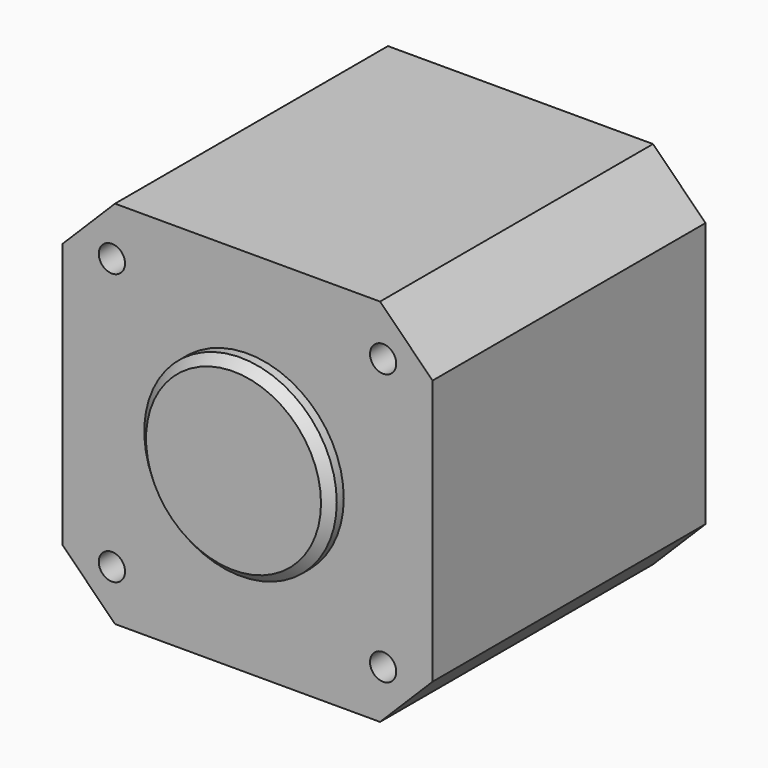
from build123d import *

# Parameters (mm, degrees)
F0_W     = 42.3
F0_H     = 42.3
F1_DEPTH = 39
F2_R     = 11
F3_DEPTH = 2
F4_SIZE  = 1
F6_D     = 3
F6_DEPTH = 10
F6_TIP   = 0.9012909285
F7_SIZE  = 6


with BuildPart() as f1:
    # F0 (on Front) → F1 (new body)
    with BuildSketch(Plane.XZ):
        with Locations((21.15, 21.15)):
            Rectangle(F0_W, F0_H)
    extrude(amount=F1_DEPTH)

    # F2 (on face) → F3 (join)
    with BuildSketch(Plane.XZ.offset(39)):
        with Locations((21.15, 21.15)):
            Circle(F2_R)
    extrude(amount=F3_DEPTH)

    # F4
    f4_edges = [f1.edges().sort_by_distance(p)[0] for p in [
        (10.15, -41, 21.15),
    ]]
    chamfer(f4_edges, length=F4_SIZE)

    # F6
    with Locations(Plane.XZ.offset(39)):
        with Locations((5.65, 36.65), (36.65, 36.65), (36.65, 5.65), (5.65, 5.65)):
            Hole(F6_D / 2, depth=F6_DEPTH)
            with Locations((0, 0, -(F6_DEPTH + F6_TIP / 2))):  # 118° drill point
                Cone(0, F6_D / 2, F6_TIP, mode=Mode.SUBTRACT)

    # F7
    f7_edges = [f1.edges().sort_by_distance(p)[0] for p in [
        (0, -19.5, 42.3),
        (0, -19.5, 0),
        (42.3, -19.5, 42.3),
        (42.3, -19.5, 0),
    ]]
    chamfer(f7_edges, length=F7_SIZE)


solid = f1.part
